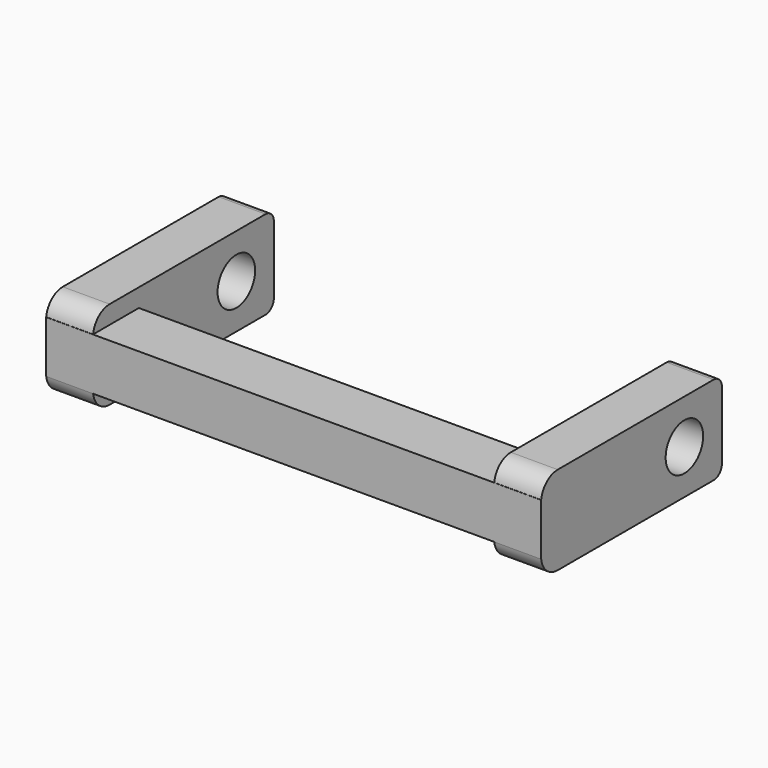
from build123d import *

# Parameters (mm, degrees)
F0_W     = 43
F0_H     = 5.5
F1_DEPTH = 5
F3_DEPTH = 4.5
F5_DEPTH = 4.5
F6_R     = 2.25
F7_DEPTH = 47.501


with BuildPart() as f1:
    # F0 (on Top) → F1 (new body)
    with BuildSketch(Plane.XY):
        with Locations((21.5, 2.75)):
            Rectangle(F0_W, F0_H)
    extrude(amount=F1_DEPTH)

    # F2 (on Right) → F3 (join)
    with BuildSketch(Plane.YZ):
        with BuildLine():
            ThreePointArc((0, 0.25), (0.585786, -1.164214), (2, -1.75))
            Line((2, -1.75), (20.7, -1.75))
            ThreePointArc((20.7, -1.75), (21.407107, -1.457107), (21.7, -0.75))
            Line((21.7, -0.75), (21.7, 5.75))
            ThreePointArc((21.7, 5.75), (21.407107, 6.457107), (20.7, 6.75))
            Line((20.7, 6.75), (2, 6.75))
            ThreePointArc((2, 6.75), (0.585786, 6.164214), (0, 4.75))
            Line((0, 4.75), (0, 0.25))
        make_face()
    extrude(amount=F3_DEPTH)

    # F4 (on face) → F5 (join)
    with BuildSketch(Plane.YZ.offset(43)):
        with BuildLine():
            Line((0.015687, 5), (0, 5))
            Line((0, 5), (0, 0))
            Line((0, 0), (0.015687, 0))
            ThreePointArc((0.015687, 0), (0.677124, -1.25), (2, -1.75))
            Line((2, -1.75), (20.7, -1.75))
            ThreePointArc((20.7, -1.75), (21.407107, -1.457107), (21.7, -0.75))
            Line((21.7, -0.75), (21.7, 5.75))
            ThreePointArc((21.7, 5.75), (21.407107, 6.457107), (20.7, 6.75))
            Line((20.7, 6.75), (2, 6.75))
            ThreePointArc((2, 6.75), (0.677124, 6.25), (0.015687, 5))
        make_face()
    extrude(amount=F5_DEPTH)

    # F6 (on face) → F7 (cut, through all)
    with BuildSketch(Plane(origin=(0, 0, 0), x_dir=(0, -1, 0), z_dir=(-1, 0, 0))):
        with Locations((-17.2, 2.5)):
            Circle(F6_R)
    extrude(amount=-F7_DEPTH, mode=Mode.SUBTRACT)


solid = f1.part
